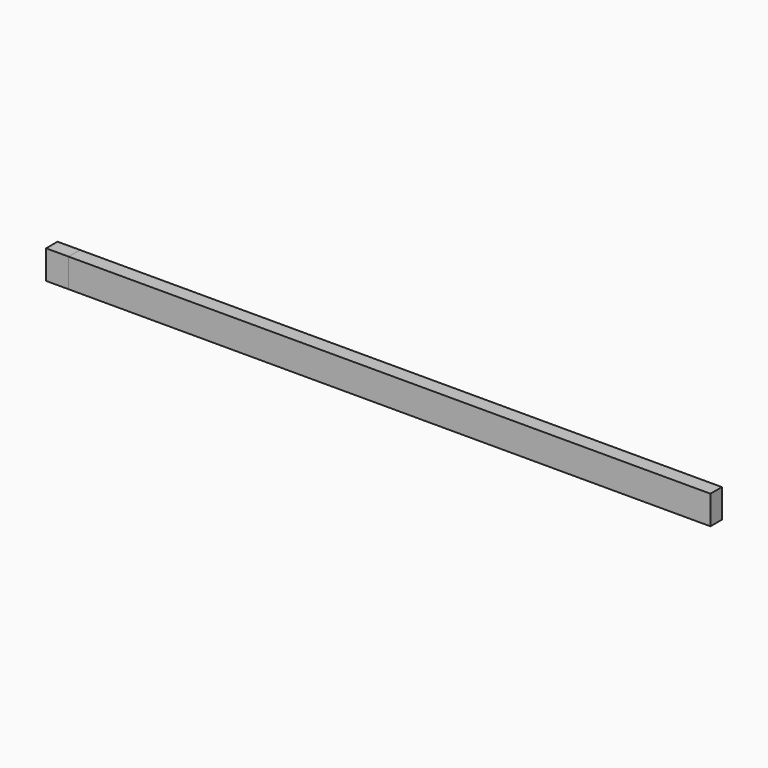
from build123d import *

# Parameters (mm, degrees)
F0_W     = 160
F0_H     = 160
F1_DEPTH = 7400
F2_DEPTH = 250


with BuildPart() as f1:
    # F0 (on Right) → F1 (new body)
    with BuildSketch(Plane.YZ):
        with Locations((0, 80)):
            Rectangle(F0_W, F0_H)
        with Locations((0, -80)):
            Rectangle(F0_W, F0_H)
    extrude(amount=F1_DEPTH)


with BuildPart() as f2:
    # F0 (on Right) → F2 (new body)
    with BuildSketch(Plane.YZ):
        with Locations((0, 80)):
            Rectangle(F0_W, F0_H)
        with Locations((0, -80)):
            Rectangle(F0_W, F0_H)
    extrude(amount=F2_DEPTH)


solid = Compound([f1.part, f2.part])
